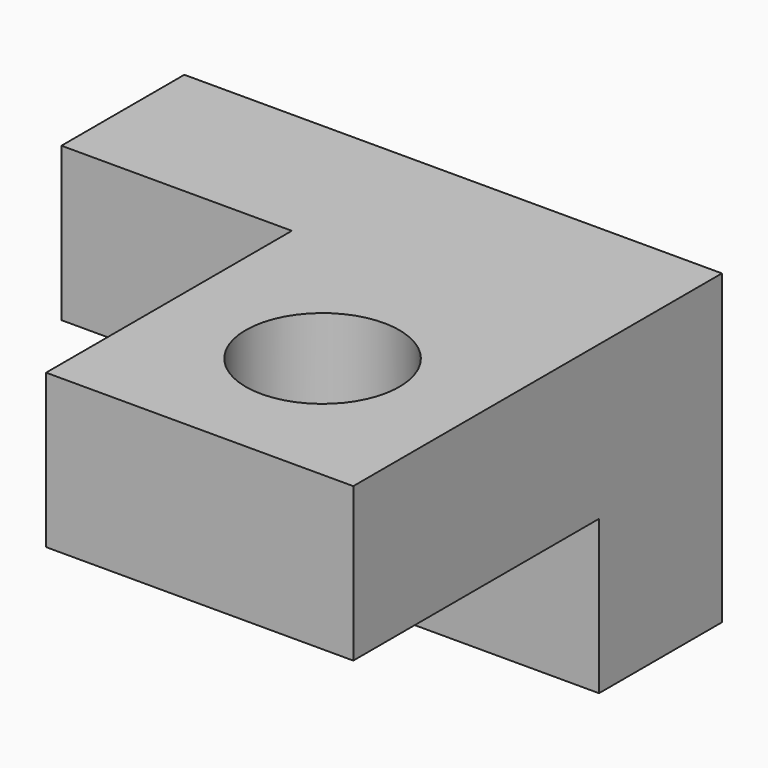
from build123d import *

# Parameters (mm, degrees)
F0_W     = 20
F0_H     = 10
F1_DEPTH = 20
F2_DEPTH = 10
F4_D     = 10


with BuildPart() as f1:
    # F0 (on Front) → F1 (new body)
    with BuildSketch(Plane.XZ):
        with Locations((15, 15)):
            Rectangle(F0_W, F0_H)
    extrude(amount=F1_DEPTH)

    # F0 (on Front) → F2 (join)
    with BuildSketch(Plane.XZ):
        Polygon((0, 10), (0, 0), (25, 0), (25, 10), (5, 10), (5, 20), (-10, 20), (-10, 10), align=None)
        with Locations((15, 15)):
            Rectangle(F0_W, F0_H)
    extrude(amount=-F2_DEPTH)

    # F4 (through all)
    with Locations(Plane(origin=(0, 0, 10), x_dir=(1, 0, 0), z_dir=(0, 0, -1))):
        with Locations((15, 10)):
            Hole(F4_D / 2)


solid = f1.part
